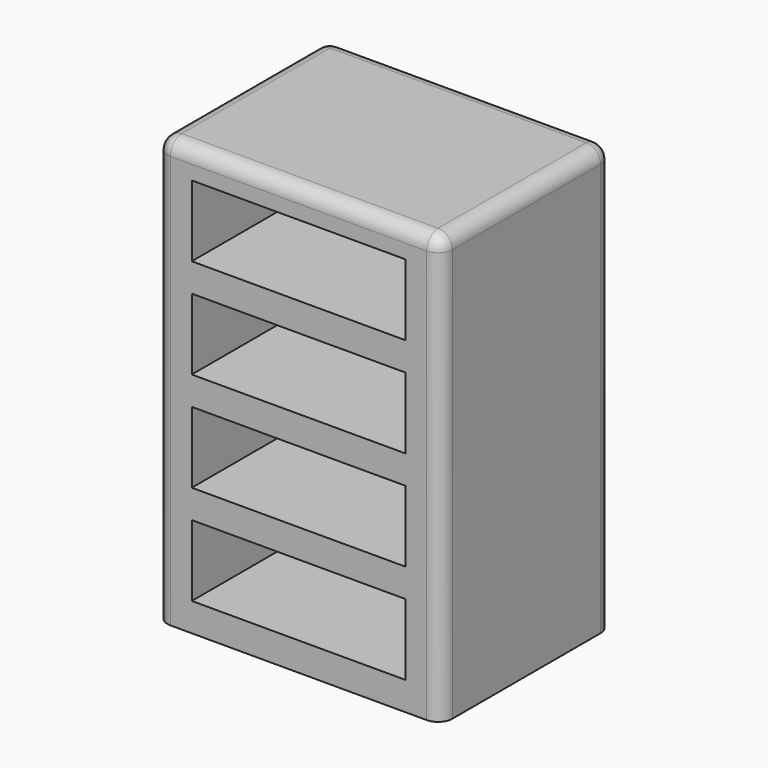
from build123d import *

# Parameters (mm, degrees)
F0_W     = 101.6
F0_H     = 76.2
F1_DEPTH = 152.4
F2_W     = 76.2
F2_H     = 25.4
F3_DEPTH = 55.88
F4_R     = 5.08


with BuildPart() as f1:
    # F0 (on Top) → F1 (new body)
    with BuildSketch(Plane.XY):
        Rectangle(F0_W, F0_H)
    extrude(amount=F1_DEPTH)

    # F2 (on face) → F3 (cut)
    with BuildSketch(Plane.XZ.offset(38.1)):
        with Locations((0, 129.54)):
            Rectangle(F2_W, F2_H)
        with Locations((0, 93.98)):
            Rectangle(F2_W, F2_H)
        with Locations((0, 58.42)):
            Rectangle(F2_W, F2_H)
        with Locations((0, 22.86)):
            Rectangle(F2_W, F2_H)
    extrude(amount=-F3_DEPTH, mode=Mode.SUBTRACT)

    # F4
    f4_edges = [f1.edges().sort_by_distance(p)[0] for p in [
        (50.8, 0, 152.4),
        (-50.8, 0, 152.4),
        (0, -38.1, 152.4),
        (0, 38.1, 152.4),
        (50.8, -38.1, 76.2),
        (50.8, 38.1, 76.2),
        (-50.8, -38.1, 76.2),
        (-50.8, 38.1, 76.2),
    ]]
    fillet(f4_edges, radius=F4_R)


solid = f1.part
